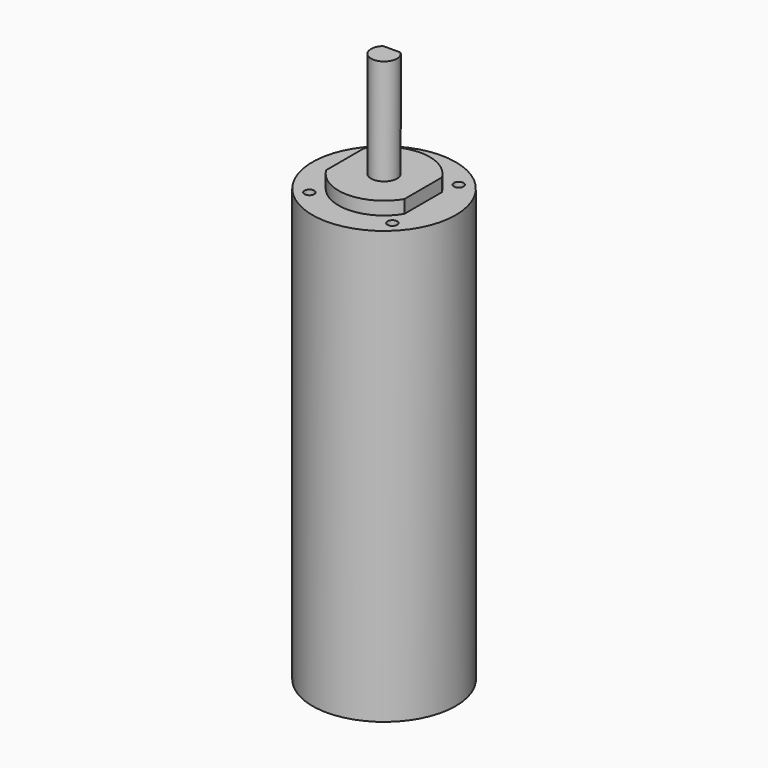
from build123d import *

# Parameters (mm, degrees)
F0_R     = 11
F1_DEPTH = 66.3
F3_DEPTH = 2
F4_R     = 2
F5_DEPTH = 16.2
F6_W     = 2.6457513111
F6_H     = 0.5
F7_DEPTH = 12
F9_D     = 1.5
F9_DEPTH = 10
F9_TIP   = 0.4506454643


with BuildPart() as f1:
    # F0 (on Top) → F1 (new body)
    with BuildSketch(Plane.XY):
        Circle(F0_R)
    extrude(amount=-F1_DEPTH)

    # F2 (on face) → F3 (join)
    with BuildSketch(Plane.XY):
        with BuildLine():
            ThreePointArc((6, 3.6055512755), (0, 7), (-6, 3.6055512755))
            Line((-6, 3.6055512755), (-6, -3.6055512755))
            ThreePointArc((-6, -3.6055512755), (0, -7), (6, -3.6055512755))
            Line((6, -3.6055512755), (6, 3.6055512755))
        make_face()
    extrude(amount=F3_DEPTH)

    # F4 (on face) → F5 (join)
    with BuildSketch(Plane.XY.offset(2)):
        Circle(F4_R)
    extrude(amount=F5_DEPTH)

    # F6 (on face) → F7 (cut)
    with BuildSketch(Plane.XY.offset(18.2)):
        with Locations((0, 1.75)):
            Rectangle(F6_W, F6_H)
    extrude(amount=-F7_DEPTH, mode=Mode.SUBTRACT)

    # F9
    with Locations(Plane.XY):
        with Locations((-6.3639610307, 6.3639610307), (-6.3639610307, -6.3639610307), (6.3639610307, 6.3639610307), (6.3639610307, -6.3639610307)):
            Hole(F9_D / 2, depth=F9_DEPTH)
            with Locations((0, 0, -(F9_DEPTH + F9_TIP / 2))):  # 118° drill point
                Cone(0, F9_D / 2, F9_TIP, mode=Mode.SUBTRACT)


solid = f1.part
